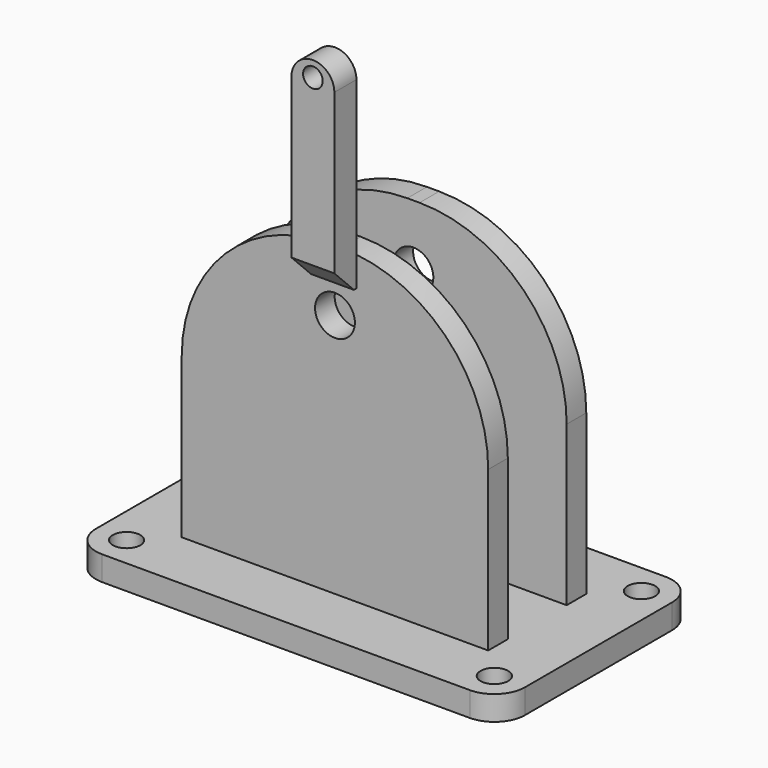
from build123d import *

# Parameters (mm, degrees)
SKETCH_W        = 70
SKETCH_H        = 40
PAD_DEPTH       = 4
FILLET_R        = 5
SKETCH001_R     = 2.25
POCKET_DEPTH    = 5
SKETCH002_W     = 50
SKETCH002_H     = 4
PAD001_DEPTH    = 50
SKETCH003_R     = 3.25
POCKET001_DEPTH = 30.001
FILLET001_R     = 24
PAD004_DEPTH    = 4.5
CHAMFER_SIZE    = 4
SKETCH007_R     = 1.6
POCKET002_DEPTH = 4.5


with BuildPart() as part:
    # Sketch → Pad (new body)
    with BuildSketch(Plane.XY):
        Rectangle(SKETCH_W, SKETCH_H)
    extrude(amount=PAD_DEPTH)

    # Fillet
    fillet_edges = [part.edges().sort_by_distance(p)[0] for p in [
        (35, -20, 2),
        (35, 20, 2),
        (-35, -20, 2),
        (-35, 20, 2),
    ]]
    fillet(fillet_edges, radius=FILLET_R)

    # Sketch001 (on Face5 of Fillet) → Pocket (cut)
    with BuildSketch(Plane.XY.offset(4)):
        with Locations((-30, 15)):
            Circle(SKETCH001_R)
        with Locations((30, 15)):
            Circle(SKETCH001_R)
        with Locations((30, -15)):
            Circle(SKETCH001_R)
        with Locations((-30, -15)):
            Circle(SKETCH001_R)
    extrude(amount=-POCKET_DEPTH, mode=Mode.SUBTRACT)

    # Sketch002 (on Face5 of Pocket) → Pad001 (join)
    with BuildSketch(Plane.XY.offset(4)):
        with Locations((0, 8)):
            Rectangle(SKETCH002_W, SKETCH002_H)
        with Locations((0, -8)):
            Rectangle(SKETCH002_W, SKETCH002_H)
    extrude(amount=PAD001_DEPTH)

    # Sketch003 (on Face21 of Pad001) → Pocket001 (cut, through all)
    with BuildSketch(Plane.XZ.offset(10)):
        with Locations((0, 44)):
            Circle(SKETCH003_R)
    extrude(amount=-POCKET001_DEPTH, mode=Mode.SUBTRACT)

    # Fillet001
    fillet001_edges = [part.edges().sort_by_distance(p)[0] for p in [
        (-25, 8, 54),
        (-25, -8, 54),
        (25, 8, 54),
        (25, -8, 54),
    ]]
    fillet(fillet001_edges, radius=FILLET001_R)

    # Sketch006 (on Face21 of Fillet001) → Pad004 (join)
    with BuildSketch(Plane.XZ.offset(10)):
        with BuildLine():
            Line((3.5, 49), (-3.5, 49))
            Line((-3.5, 79), (-3.5, 49))
            ThreePointArc((3.5, 79), (0, 82.5), (-3.5, 79))
            Line((3.5, 49), (3.5, 79))
        make_face()
    extrude(amount=PAD004_DEPTH)

    # Chamfer
    chamfer_edges = [part.edges().sort_by_distance(p)[0] for p in [
        (0, -14.5, 49),
    ]]
    chamfer(chamfer_edges, length=CHAMFER_SIZE)

    # Sketch007 (on Face5 of Chamfer) → Pocket002 (cut)
    with BuildSketch(Plane.XZ.offset(14.5)):
        with Locations((0, 80)):
            Circle(SKETCH007_R)
    extrude(amount=-POCKET002_DEPTH, mode=Mode.SUBTRACT)


solid = part.part
